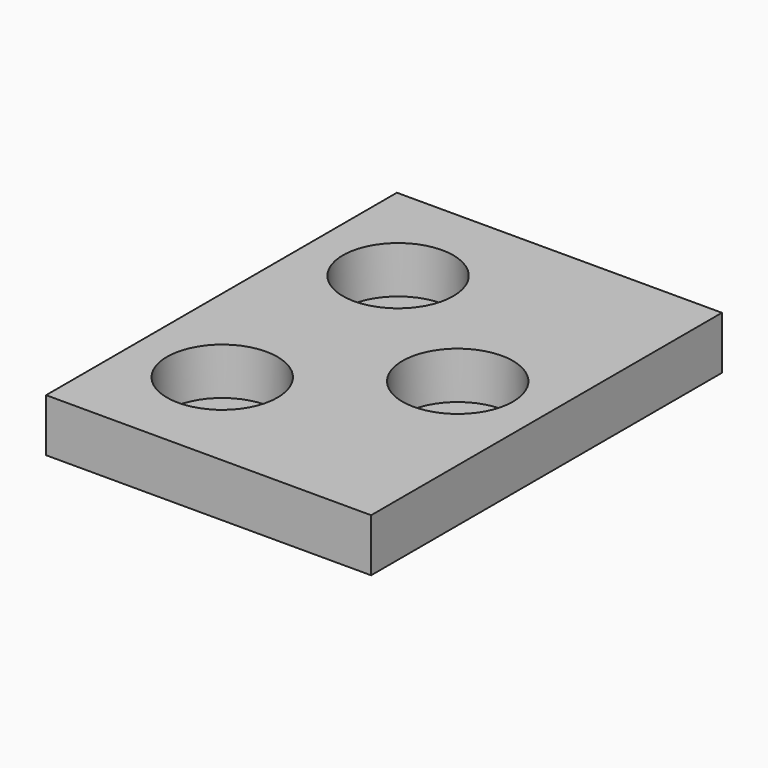
from build123d import *

# Parameters (mm, degrees)
F0_W     = 276.5
F0_H     = 373
F2_DEPTH = 45
F1_R     = 47
F3_DEPTH = 40


with BuildPart() as f2:
    # F0 (on Top) → F2 (new body)
    with BuildSketch(Plane.XY):
        Rectangle(F0_W, F0_H)
    extrude(amount=-F2_DEPTH)

    # F1 (on face) → F3 (cut)
    with BuildSketch(Plane.XY):
        with Locations((-63.016894, 93.755925)):
            Circle(F1_R)
        with Locations((62.786135, -0.109312)):
            Circle(F1_R)
        with Locations((-63.016894, -93.244075)):
            Circle(F1_R)
    extrude(amount=-F3_DEPTH, mode=Mode.SUBTRACT)


solid = f2.part
